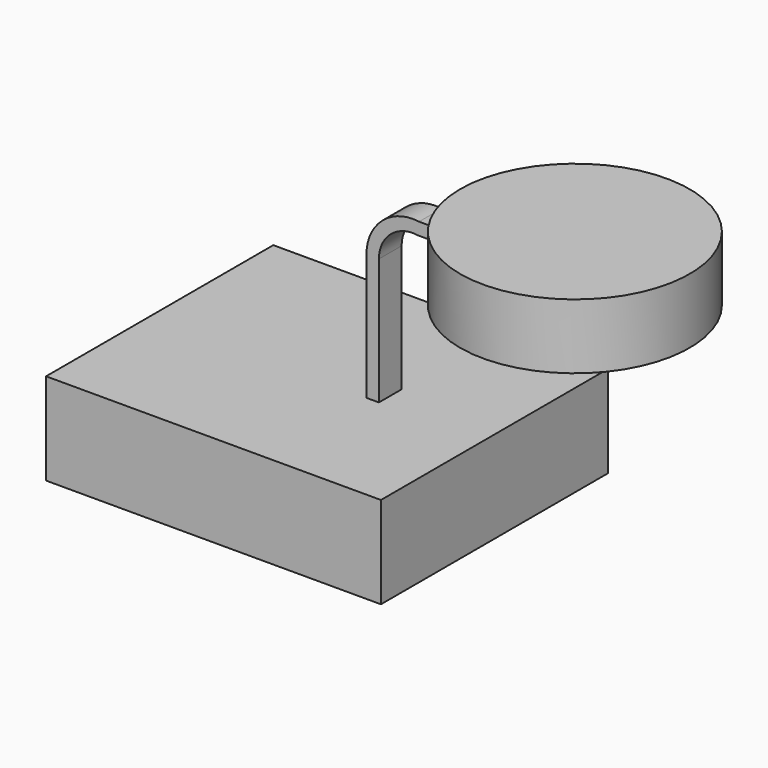
from build123d import *

# Parameters (mm, degrees)
F1_DEPTH = 38.1
F3_DEPTH = 3.81


with BuildPart() as f1:
    # F0 (on Front) → F1 (new body, symmetric)
    with BuildSketch(Plane.XZ):
        Polygon((-44.922192, -12.321512), (44.922192, -12.321512), (44.922192, 12.321512), (16.942086, 12.321512), (13.605004, 12.321512), (-44.922192, 12.321512), align=None)
    extrude(amount=F1_DEPTH, both=True)


with BuildPart() as f2:
    # F0 (on Front) → F2 (revolve)
    with BuildSketch(Plane.XZ):
        Polygon((35.681047, 58.527198), (35.681047, 55.190116), (35.681047, 49.799457), (66.484846, 49.799457), (66.484846, 67.254938), (35.681047, 67.254938), align=None)
    revolve(axis=Axis((66.484846, 0, 58.527198), (0, 0, 1)))


with BuildPart() as f3:
    # F0 (on Front) → F3 (new body, symmetric)
    with BuildSketch(Plane.XZ):
        with BuildLine():
            Line((13.605004, 12.321512), (16.942086, 12.321512))
            Line((16.942086, 12.321512), (16.942086, 46.205681))
            ThreePointArc((16.942086, 46.205681), (20.132794, 53.124638), (27.466714, 55.190116))
            Line((27.466714, 55.190116), (35.681047, 55.190116))
            Line((35.681047, 55.190116), (35.681047, 58.527198))
            Line((35.681047, 58.527198), (27.709519, 58.527198))
            ThreePointArc((27.709519, 58.527198), (17.858729, 55.569936), (13.605004, 46.205681))
            Line((13.605004, 46.205681), (13.605004, 12.321512))
        make_face()
    extrude(amount=F3_DEPTH, both=True)


solid = Compound([f1.part, f2.part, f3.part])
